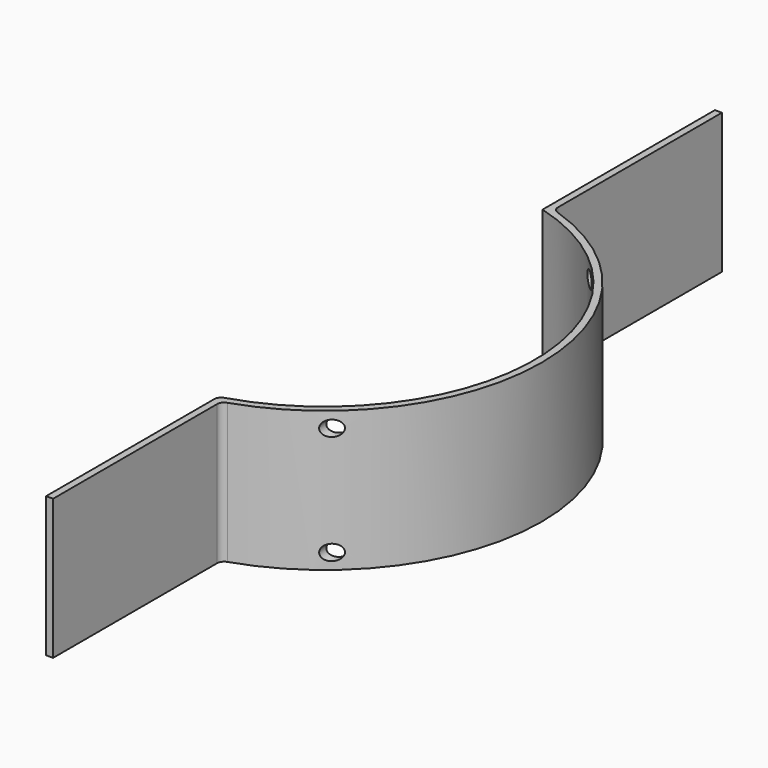
from build123d import *

# Parameters (mm, degrees)
F1_DEPTH = 100
F3_D     = 11


with BuildPart() as f1:
    # F0 (on Top) → F1 (new body)
    with BuildSketch(Plane.XY):
        with BuildLine():
            Line((45, -298.3239697419), (45, -151.9868415357))
            ThreePointArc((45, -151.9868415357), (45.9495370635, -149.0553316858), (48.4375, -147.2372527377))
            ThreePointArc((48.4375, -147.2372527377), (155, 0), (48.4375, 147.2372527377))
            ThreePointArc((48.4375, 147.2372527377), (45.9495370635, 149.0553316858), (45, 151.9868415357))
            Line((45, 151.9868415357), (45, 298.3239697419))
            Line((45, 298.3239697419), (40, 298.3239697419))
            Line((40, 298.3239697419), (40, 144.568322948))
            ThreePointArc((40, 144.568322948), (149.8888164954, 1.8456395549), (43.5443348323, -143.5371914998))
            ThreePointArc((43.5443348323, -143.5371914998), (40.9826422963, -145.343888573), (40, -148.3206043943))
            Line((40, -148.3206043943), (40, -298.3239697419))
            Line((40, -298.3239697419), (45, -298.3239697419))
        make_face()
    extrude(amount=F1_DEPTH)

    # F3 (through all)
    with Locations(Plane.XZ.offset(298.3239697419)):
        with Locations((100, 89), (100, 11)):
            Hole(F3_D / 2)


solid = f1.part
